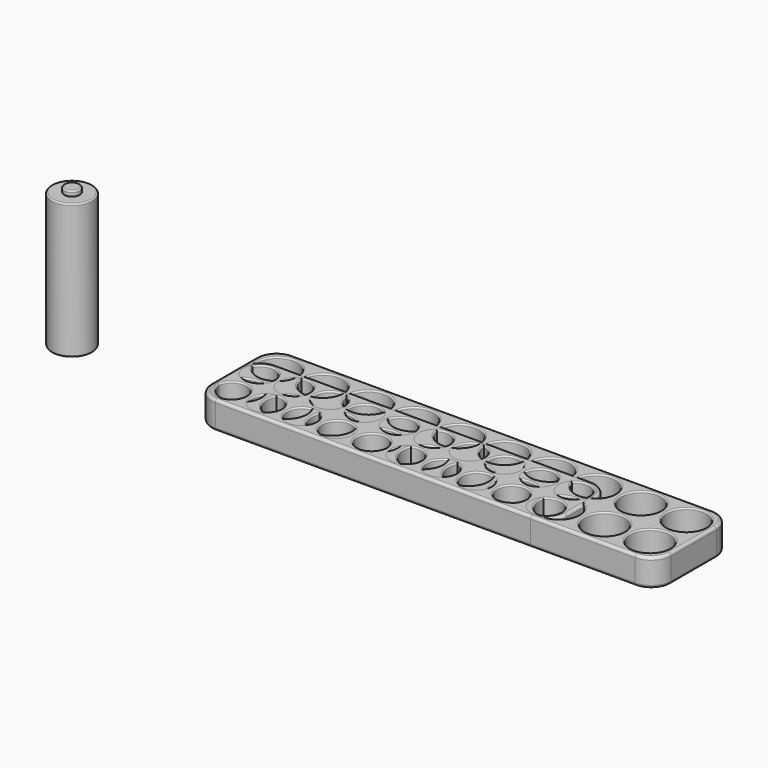
from build123d import *

# Parameters (mm, degrees)
SKETCH001_R     = 7.35
PAD_DEPTH       = 49
SKETCH002_R     = 2.8
PAD001_DEPTH    = 1.8
FILLET_R        = 0.5
FILLET001_R     = 0.5
FILLET002_R     = 0.5
PAD002_DEPTH    = 10
SKETCH003_R     = 7.25
POCKET_DEPTH    = 9
FILLET003_R     = 1
FILLET004_R     = 0.5
FILLET005_R     = 1
PAD003_DEPTH    = 10
SKETCH005_R     = 5.35
POCKET001_DEPTH = 9
FILLET006_R     = 1
FILLET007_R     = 0.5
FILLET008_R     = 1


with BuildPart() as obj1:
    # Sketch001 → Pad (new body)
    with BuildSketch(Plane.XY):
        with Locations((-57.230431, 15.580759)):
            Circle(SKETCH001_R)
    extrude(amount=PAD_DEPTH)

    # Sketch002 → Pad001 (join)
    with BuildSketch(Plane.XY.offset(49)):
        with Locations((-57.230431, 15.580759)):
            Circle(SKETCH002_R)
    extrude(amount=PAD001_DEPTH)

    # Fillet
    fillet_edges = [obj1.edges().sort_by_distance(p)[0] for p in [
        (-60.030431, 15.580759, 50.8),
    ]]
    fillet(fillet_edges, radius=FILLET_R)

    # Fillet001
    fillet001_edges = [obj1.edges().sort_by_distance(p)[0] for p in [
        (-64.580431, 15.580759, 49),
    ]]
    fillet(fillet001_edges, radius=FILLET001_R)

    # Fillet002
    fillet002_edges = [obj1.edges().sort_by_distance(p)[0] for p in [
        (-64.580431, 15.580759, 0),
    ]]
    fillet(fillet002_edges, radius=FILLET002_R)


with BuildPart() as obj2:
    # Sketch → Pad002 (new body)
    with BuildSketch(Plane.XY):
        with BuildLine():
            Line((0, 27.75), (0, 7.25))
            ThreePointArc((0, 7.25), (2.123476, 2.123476), (7.25, 0))
            Line((7.25, 0), (159.72, 0))
            ThreePointArc((159.72, 0), (164.846524, 2.123476), (166.97, 7.25))
            Line((166.97, 7.25), (166.97, 27.75))
            ThreePointArc((166.97, 27.75), (164.846524, 32.876524), (159.72, 35))
            Line((159.72, 35), (7.25, 35))
            ThreePointArc((7.25, 35), (2.123476, 32.876524), (0, 27.75))
        make_face()
    extrude(amount=PAD002_DEPTH)

    # Sketch003 → Pocket (cut)
    with BuildSketch(Plane.XY.offset(10)):
        with Locations((9.220242, 9.25)):
            Circle(SKETCH003_R)
        with Locations((25.720242, 9.25)):
            Circle(SKETCH003_R)
        with Locations((42.220242, 9.25)):
            Circle(SKETCH003_R)
        with Locations((58.720242, 9.25)):
            Circle(SKETCH003_R)
        with Locations((75.220242, 9.25)):
            Circle(SKETCH003_R)
        with Locations((91.720242, 9.25)):
            Circle(SKETCH003_R)
        with Locations((108.220242, 9.25)):
            Circle(SKETCH003_R)
        with Locations((124.720242, 9.25)):
            Circle(SKETCH003_R)
        with Locations((141.220242, 9.25)):
            Circle(SKETCH003_R)
        with Locations((157.720242, 9.25)):
            Circle(SKETCH003_R)
        with Locations((9.22, 25.75)):
            Circle(SKETCH003_R)
        with Locations((25.72, 25.75)):
            Circle(SKETCH003_R)
        with Locations((42.22, 25.75)):
            Circle(SKETCH003_R)
        with Locations((58.72, 25.75)):
            Circle(SKETCH003_R)
        with Locations((75.22, 25.75)):
            Circle(SKETCH003_R)
        with Locations((91.72, 25.75)):
            Circle(SKETCH003_R)
        with Locations((108.22, 25.75)):
            Circle(SKETCH003_R)
        with Locations((124.72, 25.75)):
            Circle(SKETCH003_R)
        with Locations((141.22, 25.75)):
            Circle(SKETCH003_R)
        with Locations((157.72, 25.75)):
            Circle(SKETCH003_R)
    extrude(amount=-POCKET_DEPTH, mode=Mode.SUBTRACT)

    # Fillet003
    fillet003_edges = [obj2.edges().sort_by_distance(p)[0] for p in [
        (83.485, 0, 10),
        (2.123476, 2.123476, 10),
        (0, 17.5, 10),
        (2.123476, 32.876524, 10),
        (83.485, 35, 10),
        (164.846524, 32.876524, 10),
        (166.97, 17.5, 10),
        (164.846524, 2.123476, 10),
    ]]
    fillet(fillet003_edges, radius=FILLET003_R)

    # Fillet004
    fillet004_edges = [obj2.edges().sort_by_distance(p)[0] for p in [
        (1.97, 25.75, 10),
        (1.970242, 9.25, 10),
        (18.470242, 9.25, 10),
        (18.47, 25.75, 10),
        (34.97, 25.75, 10),
        (34.970242, 9.25, 10),
        (51.470242, 9.25, 10),
        (51.47, 25.75, 10),
        (67.97, 25.75, 10),
        (67.970242, 9.25, 10),
        (84.470242, 9.25, 10),
        (84.47, 25.75, 10),
        (100.97, 25.75, 10),
        (100.970242, 9.25, 10),
        (117.470242, 9.25, 10),
        (117.47, 25.75, 10),
        (133.97, 25.75, 10),
        (133.970242, 9.25, 10),
        (150.47, 25.75, 10),
        (150.470242, 9.25, 10),
    ]]
    fillet(fillet004_edges, radius=FILLET004_R)

    # Fillet005
    fillet005_edges = [obj2.edges().sort_by_distance(p)[0] for p in [
        (0, 17.5, 0),
        (2.123476, 2.123476, 0),
        (83.485, 0, 0),
        (164.846524, 2.123476, 0),
        (166.97, 17.5, 0),
        (164.846524, 32.876524, 0),
        (83.485, 35, 0),
        (2.123476, 32.876524, 0),
    ]]
    fillet(fillet005_edges, radius=FILLET005_R)


with BuildPart() as aaaholder:
    # Sketch004 → Pad003 (new body)
    with BuildSketch(Plane.XY):
        with BuildLine():
            Line((0, 20.15), (0, 7.25))
            ThreePointArc((0, 7.25), (2.123476, 2.123476), (7.25, 0))
            Line((7.25, 0), (121.75, 0))
            ThreePointArc((121.75, 0), (126.876524, 2.123476), (129, 7.25))
            Line((129, 7.25), (129, 20.15))
            ThreePointArc((129, 20.15), (126.876524, 25.276524), (121.75, 27.4))
            Line((121.75, 27.4), (7.25, 27.4))
            ThreePointArc((7.25, 27.4), (2.123476, 25.276524), (0, 20.15))
        make_face()
    extrude(amount=PAD003_DEPTH)

    # Sketch005 → Pocket001 (cut)
    with BuildSketch(Plane.XY.offset(10)):
        with Locations((7.35, 7.35)):
            Circle(SKETCH005_R)
        with Locations((20.05, 7.35)):
            Circle(SKETCH005_R)
        with Locations((32.75, 7.35)):
            Circle(SKETCH005_R)
        with Locations((45.45, 7.35)):
            Circle(SKETCH005_R)
        with Locations((58.15, 7.35)):
            Circle(SKETCH005_R)
        with Locations((70.85, 7.35)):
            Circle(SKETCH005_R)
        with Locations((83.55, 7.35)):
            Circle(SKETCH005_R)
        with Locations((96.25, 7.35)):
            Circle(SKETCH005_R)
        with Locations((108.95, 7.35)):
            Circle(SKETCH005_R)
        with Locations((121.65, 7.35)):
            Circle(SKETCH005_R)
        with Locations((7.35, 20.05)):
            Circle(SKETCH005_R)
        with Locations((20.05, 20.05)):
            Circle(SKETCH005_R)
        with Locations((32.75, 20.05)):
            Circle(SKETCH005_R)
        with Locations((45.45, 20.05)):
            Circle(SKETCH005_R)
        with Locations((58.15, 20.05)):
            Circle(SKETCH005_R)
        with Locations((70.85, 20.05)):
            Circle(SKETCH005_R)
        with Locations((83.55, 20.05)):
            Circle(SKETCH005_R)
        with Locations((96.25, 20.05)):
            Circle(SKETCH005_R)
        with Locations((108.95, 20.05)):
            Circle(SKETCH005_R)
        with Locations((121.65, 20.05)):
            Circle(SKETCH005_R)
    extrude(amount=-POCKET001_DEPTH, mode=Mode.SUBTRACT)

    # Fillet006
    fillet006_edges = [aaaholder.edges().sort_by_distance(p)[0] for p in [
        (64.5, 0, 10),
        (2.123476, 2.123476, 10),
        (0, 13.7, 10),
        (2.123476, 25.276524, 10),
        (64.5, 27.4, 10),
        (126.876524, 25.276524, 10),
        (129, 13.7, 10),
        (126.876524, 2.123476, 10),
    ]]
    fillet(fillet006_edges, radius=FILLET006_R)

    # Fillet007
    fillet007_edges = [aaaholder.edges().sort_by_distance(p)[0] for p in [
        (2, 20.05, 10),
        (2, 7.35, 10),
        (14.7, 7.35, 10),
        (14.7, 20.05, 10),
        (27.4, 20.05, 10),
        (27.4, 7.35, 10),
        (40.1, 7.35, 10),
        (40.1, 20.05, 10),
        (52.8, 20.05, 10),
        (52.8, 7.35, 10),
        (65.5, 7.35, 10),
        (65.5, 20.05, 10),
        (78.2, 20.05, 10),
        (78.2, 7.35, 10),
        (90.9, 7.35, 10),
        (90.9, 20.05, 10),
        (103.6, 20.05, 10),
        (103.6, 7.35, 10),
        (116.3, 20.05, 10),
        (116.3, 7.35, 10),
    ]]
    fillet(fillet007_edges, radius=FILLET007_R)

    # Fillet008
    fillet008_edges = [aaaholder.edges().sort_by_distance(p)[0] for p in [
        (0, 13.7, 0),
        (2.123476, 2.123476, 0),
        (64.5, 0, 0),
        (126.876524, 2.123476, 0),
        (129, 13.7, 0),
        (126.876524, 25.276524, 0),
        (64.5, 27.4, 0),
        (2.123476, 25.276524, 0),
    ]]
    fillet(fillet008_edges, radius=FILLET008_R)


solid = Compound([obj1.part, obj2.part, aaaholder.part])
